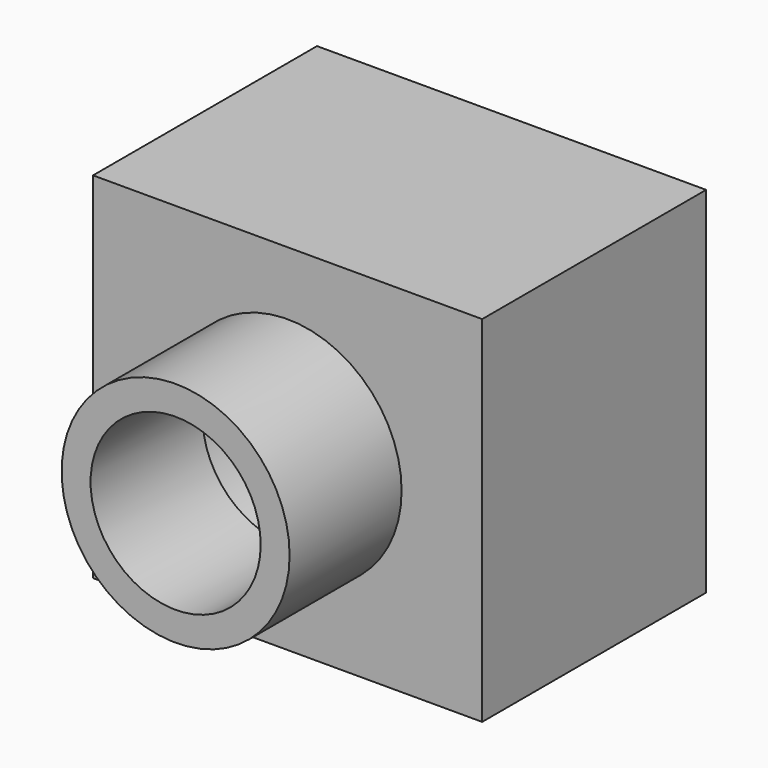
from build123d import *

# Parameters (mm, degrees)
F0_W     = 35.305619
F0_H     = 32.172695
F0_R     = 10.342233
F1_DEPTH = 25.4
F2_R     = 10.342233
F2_R_2   = 7.716218
F3_DEPTH = 12.7


with BuildPart() as f1:
    # F0 (on Front) → F1 (new body)
    with BuildSketch(Plane.XZ):
        with Locations((17.65281, -16.086347)):
            Rectangle(F0_W, F0_H)
        with Locations((17.65281, -16.086347)):
            Circle(F0_R, mode=Mode.SUBTRACT)
    extrude(amount=F1_DEPTH)


with BuildPart() as f3:
    # F2 (on face) → F3 (new body)
    with BuildSketch(Plane.XZ.offset(25.4)):
        with Locations((17.65281, -16.086347)):
            Circle(F2_R)
        with Locations((17.65281, -16.086347)):
            Circle(F2_R_2, mode=Mode.SUBTRACT)
    extrude(amount=F3_DEPTH)


solid = Compound([f1.part, f3.part])
